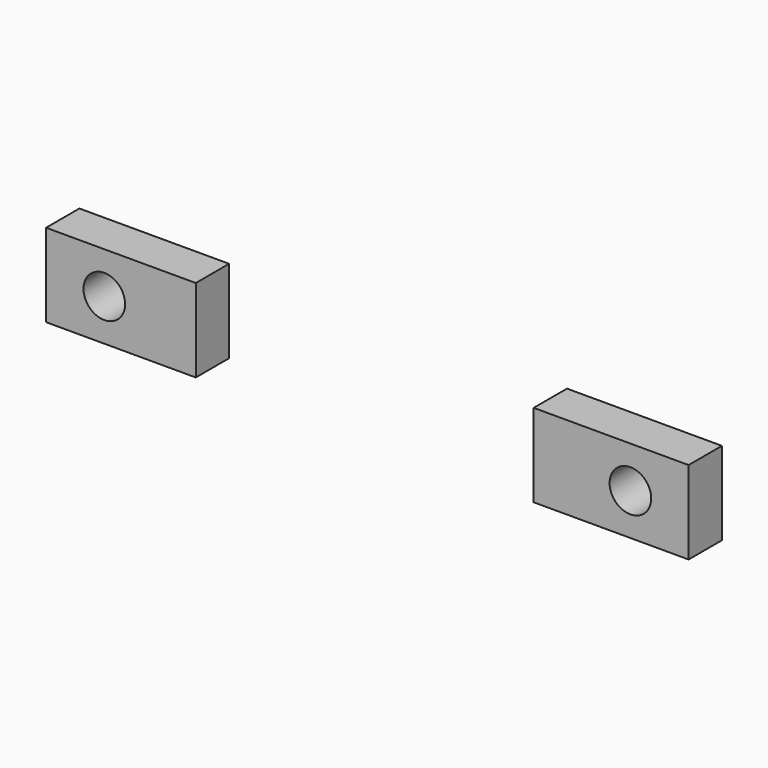
from build123d import *

# Parameters (mm, degrees)
SKETCH010_R      = 2.5
EXTRUDE006_DEPTH = 10
SKETCH007_W      = 18
SKETCH007_H      = 5.007978
SKETCH007_W_2    = 18.625626
SKETCH007_H_2    = 5.005528
EXTRUDE002_DEPTH = 10


with BuildPart() as extrude006:
    # Sketch010 (on Face3 of Extrude002) → Extrude006 (new body)
    with BuildSketch(Plane(origin=(0, 0, 0), x_dir=(-1, 0, 0), z_dir=(0, 1, 0))):
        with Locations((-31.625626, 65)):
            Circle(SKETCH010_R)
        with Locations((31.625626, 65)):
            Circle(SKETCH010_R)
    extrude(amount=-EXTRUDE006_DEPTH)


with BuildPart() as cut001:
    # Sketch007 (on Face1 of CopyCut) → Extrude002 (new body)
    with BuildSketch(Plane.XY.offset(60)):
        with Locations((-29.625626, -2.503989)):
            Rectangle(SKETCH007_W, SKETCH007_H)
        with Locations((29.312813, -2.502764)):
            Rectangle(SKETCH007_W_2, SKETCH007_H_2)
    extrude(amount=EXTRUDE002_DEPTH)

    # Cut001: cut Extrude006
    add(extrude006.part, mode=Mode.SUBTRACT)


solid = cut001.part
